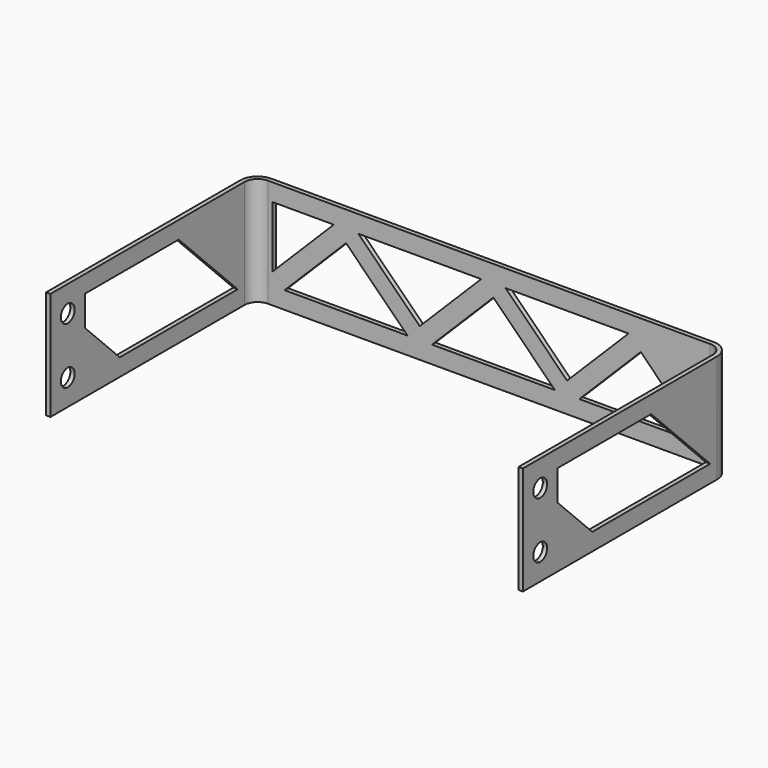
from build123d import *

# Parameters (mm, degrees)
F1_DEPTH = 25
F3_DEPTH = 25
F5_DEPTH = 200


with BuildPart() as f1:
    # F0 (on Top) → F1 (new body)
    with BuildSketch(Plane.XY):
        with BuildLine():
            Line((0, 56), (0, 0))
            Line((0, 0), (1, 0))
            Line((1, 0), (1, 56))
            ThreePointArc((1, 56), (-0.1715728753, 58.8284271247), (-3, 60))
            Line((-3, 60), (-105, 60))
            ThreePointArc((-105, 60), (-107.8284271247, 58.8284271247), (-109, 56))
            Line((-109, 56), (-109, 0))
            Line((-109, 0), (-108, 0))
            Line((-108, 0), (-108, 56))
            ThreePointArc((-108, 56), (-107.1213203436, 58.1213203436), (-105, 59))
            Line((-105, 59), (-3, 59))
            ThreePointArc((-3, 59), (-0.8786796564, 58.1213203436), (0, 56))
        make_face()
    extrude(amount=F1_DEPTH)

    # F2 (on face) → F3 (cut)
    with BuildSketch(Plane.XZ.offset(-59)):
        Polygon((-55.8284271247, 21), (-84.1715728753, 21), (-70, 6.8284271247), align=None)
        Polygon((-36, 6.8284271247), (-21.8284271247, 21), (-50.1715728753, 21), align=None)
        Polygon((-101.1715728753, 4), (-72.8284271247, 4), (-87, 18.1715728753), align=None)
        Polygon((-104, 21), (-104, 6.8284271247), (-89.8284271247, 21), align=None)
        Polygon((-67.1715728753, 4), (-38.8284271247, 4), (-53, 18.1715728753), align=None)
        Polygon((-10.4142135624, 9.5857864376), (-19, 18.1715728753), (-33.1715728753, 4), (-4.8284271247, 4), align=None)
    extrude(amount=-F3_DEPTH, mode=Mode.SUBTRACT)

    # F4 (on face) → F5 (cut)
    with BuildSketch(Plane(origin=(-109, 0, 0), x_dir=(0, -1, 0), z_dir=(-1, 0, 0))):
        with BuildLine():
            ThreePointArc((-5, 21), (-6.4142135624, 17.5857864376), (-3, 19))
            ThreePointArc((-3, 19), (-3.5857864376, 20.4142135624), (-5, 21))
        make_face()
        with BuildLine():
            ThreePointArc((-3, 6), (-6.4142135624, 7.4142135624), (-5, 4))
            ThreePointArc((-5, 4), (-3.5857864376, 4.5857864376), (-3, 6))
        make_face()
        Polygon((-10, 14), (-10, 21), (-37, 21), (-20, 4), align=None)
        Polygon((-20, 4), (-37, 21), (-54, 4), align=None)
    extrude(amount=-F5_DEPTH, mode=Mode.SUBTRACT)


solid = f1.part
